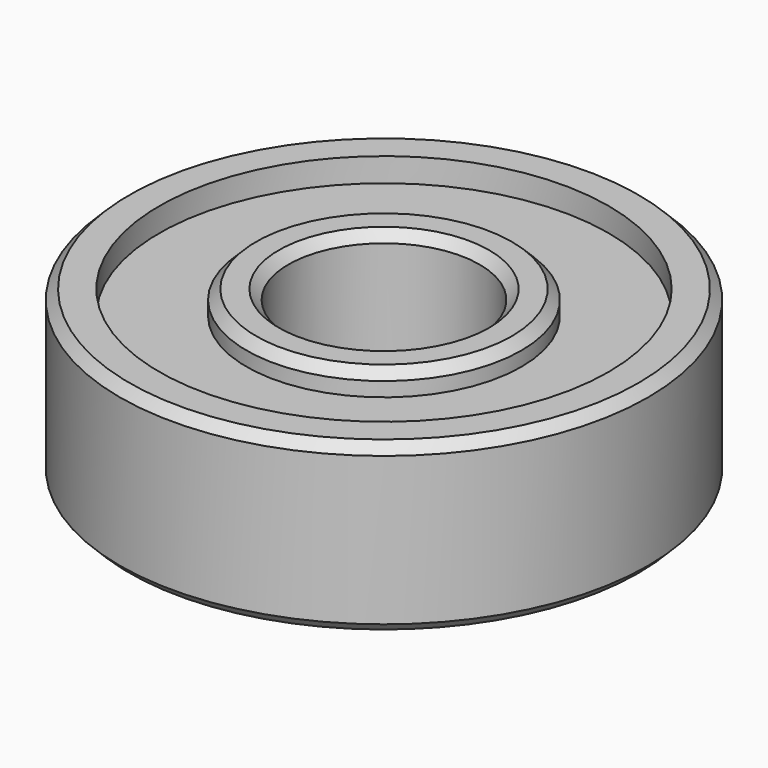
from build123d import *

# Parameters (mm, degrees)
F0_R     = 11.05
F0_R_2   = 9.4
F1_DEPTH = 3.5
F0_R_3   = 5.75
F0_R_4   = 4
F2_DEPTH = 2.5
F3_SIZE  = 0.4


with BuildPart() as f1:
    # F0 (on Top) → F1 (new body, symmetric)
    with BuildSketch(Plane.XY):
        Circle(F0_R)
        Circle(F0_R_2, mode=Mode.SUBTRACT)
    extrude(amount=F1_DEPTH, both=True)



with BuildPart() as f1b:
    # F0 (on Top) → F1, piece 2 (new body, symmetric)
    with BuildSketch(Plane.XY):
        Circle(F0_R_3)
        Circle(F0_R_4, mode=Mode.SUBTRACT)
    extrude(amount=F1_DEPTH, both=True)


with BuildPart() as f1_1:
    add(f1.part)

    add(f1b.part)  # F2 merges F1b
    # F0 (on Top) → F2 (join, symmetric)
    with BuildSketch(Plane.XY):
        Circle(F0_R_2)
        Circle(F0_R_3, mode=Mode.SUBTRACT)
    extrude(amount=F2_DEPTH, both=True)

    # F3
    f3_edges = [f1_1.edges().sort_by_distance(p)[0] for p in [
        (-11.05, 0, 3.5),
        (-11.05, 0, -3.5),
        (-4, 0, 3.5),
        (-5.75, 0, 3.5),
        (-5.75, 0, -3.5),
        (-4, 0, -3.5),
    ]]
    chamfer(f3_edges, length=F3_SIZE)


solid = f1_1.part
